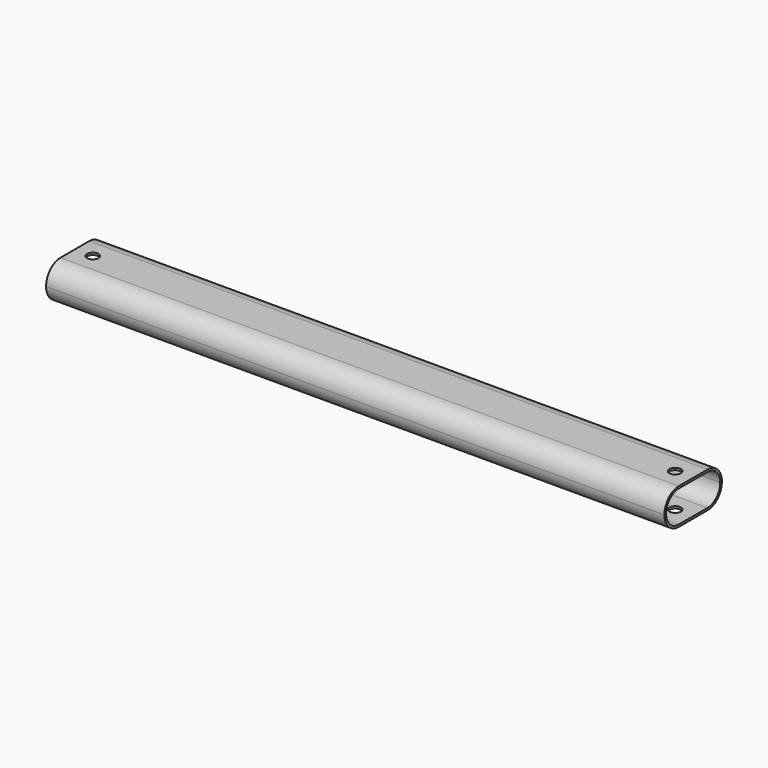
from build123d import *

# Parameters (mm, degrees)
F1_DEPTH = 430
F2_R     = 4
F3_DEPTH = 30


with BuildPart() as f1:
    # F0 (on Right) → F1 (new body)
    with BuildSketch(Plane.YZ):
        with BuildLine():
            Line((12.5, 12.5), (-12.5, 12.5))
            ThreePointArc((-12.5, 12.5), (-21.338835, 8.838835), (-25, 0))
            ThreePointArc((-25, 0), (-21.338835, -8.838835), (-12.5, -12.5))
            Line((-12.5, -12.5), (12.5, -12.5))
            ThreePointArc((12.5, -12.5), (21.338835, -8.838835), (25, 0))
            ThreePointArc((25, 0), (21.338835, 8.838835), (12.5, 12.5))
        make_face()
        with BuildLine():
            Line((-12.5, 11), (12.5, 11))
            ThreePointArc((12.5, 11), (20.278175, 7.778175), (23.5, 0))
            ThreePointArc((23.5, 0), (20.278175, -7.778175), (12.5, -11))
            Line((12.5, -11), (-12.5, -11))
            ThreePointArc((-12.5, -11), (-20.278175, -7.778175), (-23.5, 0))
            ThreePointArc((-23.5, 0), (-20.278175, 7.778175), (-12.5, 11))
        make_face(mode=Mode.SUBTRACT)
    extrude(amount=-F1_DEPTH)

    # F2 (on face) → F3 (cut)
    with BuildSketch(Plane.XY.offset(12.5)):
        with Locations((-12.5, 0)):
            Circle(F2_R)
        with Locations((-417.5, 0)):
            Circle(F2_R)
    extrude(amount=-F3_DEPTH, mode=Mode.SUBTRACT)


solid = f1.part
